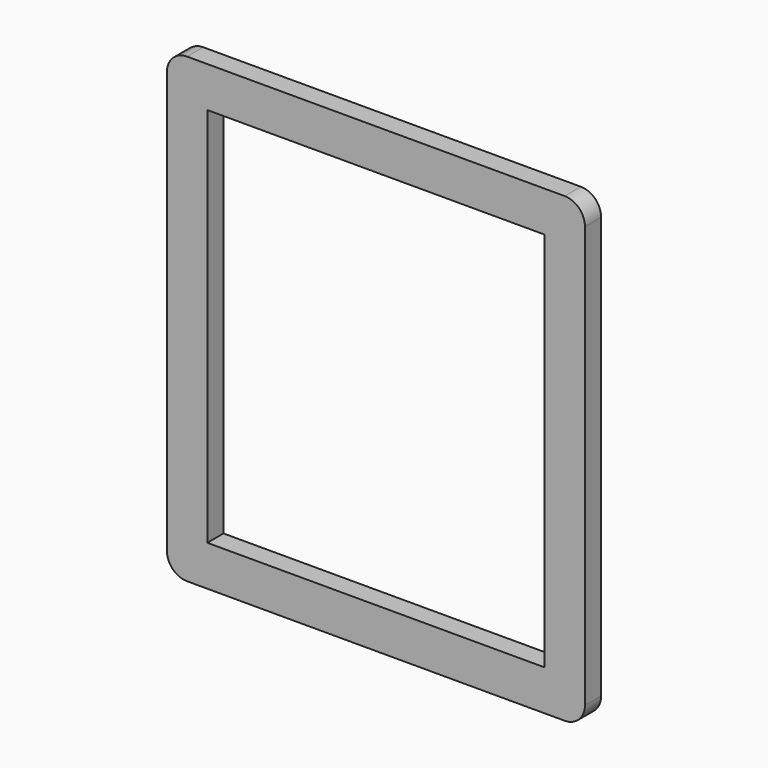
from build123d import *

# Parameters (mm, degrees)
F1_DEPTH = 3
F2_W     = 50
F2_H     = 56.5
F3_DEPTH = 25


with BuildPart() as f1:
    # F0 (on Front) → F1 (new body)
    with BuildSketch(Plane.XZ):
        with BuildLine():
            Line((14.135233, 37.539159), (-41.864767, 37.539159))
            ThreePointArc((-41.864767, 37.539159), (-43.986087, 36.660479), (-44.864767, 34.539159))
            Line((-44.864767, 34.539159), (-44.864767, -27.960841))
            ThreePointArc((-44.864767, -27.960841), (-43.986087, -30.082161), (-41.864767, -30.960841))
            Line((-41.864767, -30.960841), (14.135233, -30.960841))
            ThreePointArc((14.135233, -30.960841), (16.256553, -30.082161), (17.135233, -27.960841))
            Line((17.135233, -27.960841), (17.135233, 34.539159))
            ThreePointArc((17.135233, 34.539159), (16.256553, 36.660479), (14.135233, 37.539159))
        make_face()
    extrude(amount=F1_DEPTH)

    # F2 (on face) → F3 (cut)
    with BuildSketch(Plane.XZ.offset(3)):
        with Locations((-13.864767, 3.289159)):
            Rectangle(F2_W, F2_H)
    extrude(amount=-F3_DEPTH, mode=Mode.SUBTRACT)


solid = f1.part
